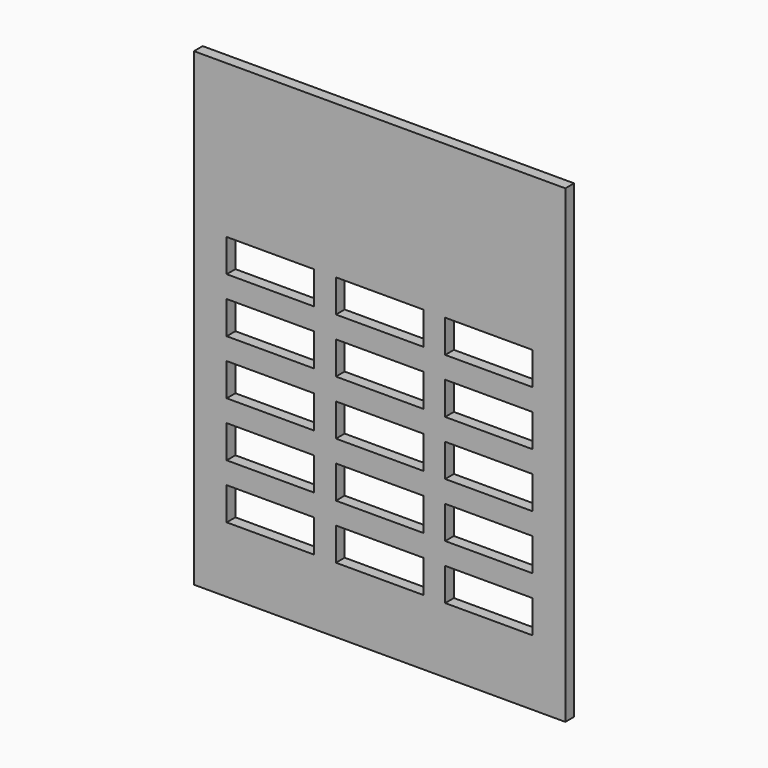
from build123d import *

# Parameters (mm, degrees)
F0_W     = 215.9
F0_H     = 273.05
F0_W_2   = 50.8
F0_H_2   = 19.05
F1_DEPTH = 6.35


with BuildPart() as f1:
    # F0 (on Front) → F1 (new body)
    with BuildSketch(Plane.XZ):
        with Locations((0, 136.525)):
            Rectangle(F0_W, F0_H)
        with Locations((-63.5, 47.625)):
            Rectangle(F0_W_2, F0_H_2, mode=Mode.SUBTRACT)
        with Locations((-63.5, 79.375)):
            Rectangle(F0_W_2, F0_H_2, mode=Mode.SUBTRACT)
        with Locations((-63.5, 111.125)):
            Rectangle(F0_W_2, F0_H_2, mode=Mode.SUBTRACT)
        with Locations((0, 47.625)):
            Rectangle(F0_W_2, F0_H_2, mode=Mode.SUBTRACT)
        with Locations((63.5, 47.625)):
            Rectangle(F0_W_2, F0_H_2, mode=Mode.SUBTRACT)
        with Locations((0, 79.375)):
            Rectangle(F0_W_2, F0_H_2, mode=Mode.SUBTRACT)
        with Locations((0, 111.125)):
            Rectangle(F0_W_2, F0_H_2, mode=Mode.SUBTRACT)
        with Locations((63.5, 79.375)):
            Rectangle(F0_W_2, F0_H_2, mode=Mode.SUBTRACT)
        with Locations((63.5, 111.125)):
            Rectangle(F0_W_2, F0_H_2, mode=Mode.SUBTRACT)
        with Locations((-63.5, 142.875)):
            Rectangle(F0_W_2, F0_H_2, mode=Mode.SUBTRACT)
        with Locations((-63.5, 174.625)):
            Rectangle(F0_W_2, F0_H_2, mode=Mode.SUBTRACT)
        with Locations((0, 142.875)):
            Rectangle(F0_W_2, F0_H_2, mode=Mode.SUBTRACT)
        with Locations((0, 174.625)):
            Rectangle(F0_W_2, F0_H_2, mode=Mode.SUBTRACT)
        with Locations((63.5, 142.875)):
            Rectangle(F0_W_2, F0_H_2, mode=Mode.SUBTRACT)
        with Locations((63.5, 174.625)):
            Rectangle(F0_W_2, F0_H_2, mode=Mode.SUBTRACT)
    extrude(amount=F1_DEPTH)


solid = f1.part
